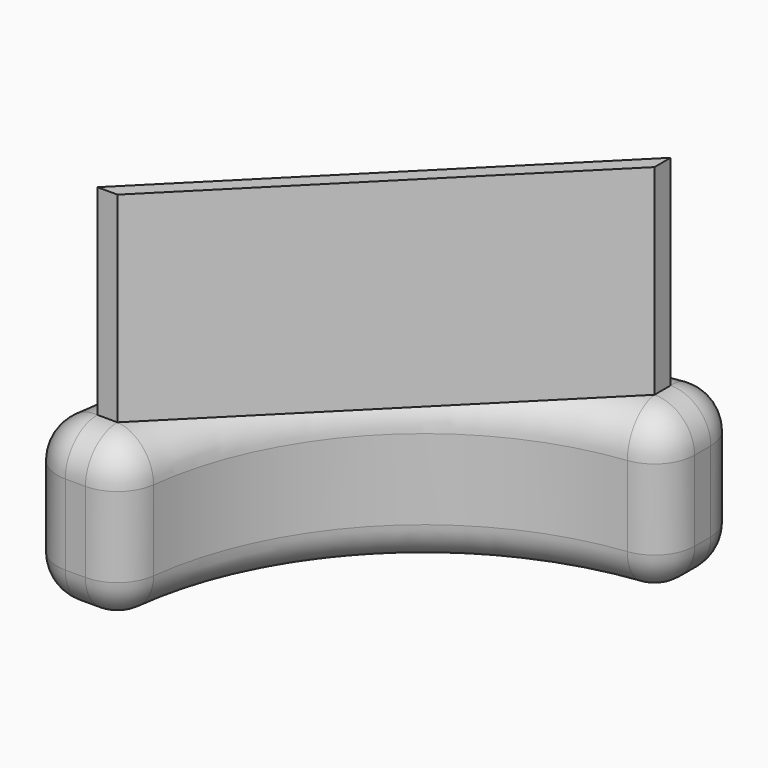
from build123d import *

# Parameters (mm, degrees)
F1_DEPTH = 20
F2_R     = 5
F4_DEPTH = 25


with BuildPart() as f1:
    # F0 (on Top) → F1 (new body)
    with BuildSketch(Plane.XY):
        with BuildLine():
            Line((0, 37.5), (0, 50))
            ThreePointArc((0, 50), (-35.355339, 35.355339), (-50, 0))
            Line((-50, 0), (-37.5, 0))
            ThreePointArc((-37.5, 0), (-26.516504, 26.516504), (0, 37.5))
        make_face()
    extrude(amount=F1_DEPTH)

    # F2
    f2_edges = [f1.edges().sort_by_distance(p)[0] for p in [
        (-26.516504, 26.516504, 0),
        (-26.516504, 26.516504, 20),
        (-43.75, 0, 0),
        (-43.75, 0, 20),
        (0, 43.75, 0),
        (0, 43.75, 20),
        (-50, 0, 10),
        (0, 50, 10),
        (0, 37.5, 10),
        (-37.5, 0, 10),
        (-35.355339, 35.355339, 0),
        (-35.355339, 35.355339, 20),
    ]]
    fillet(f2_edges, radius=F2_R)

    # F3 (on face) → F4 (join)
    with BuildSketch(Plane.XY.offset(20)):
        Polygon((-5, 44.72136), (-44.72136, 5), (-42.204858, 5), (-5, 42.204858), align=None)
    extrude(amount=F4_DEPTH)


solid = f1.part
